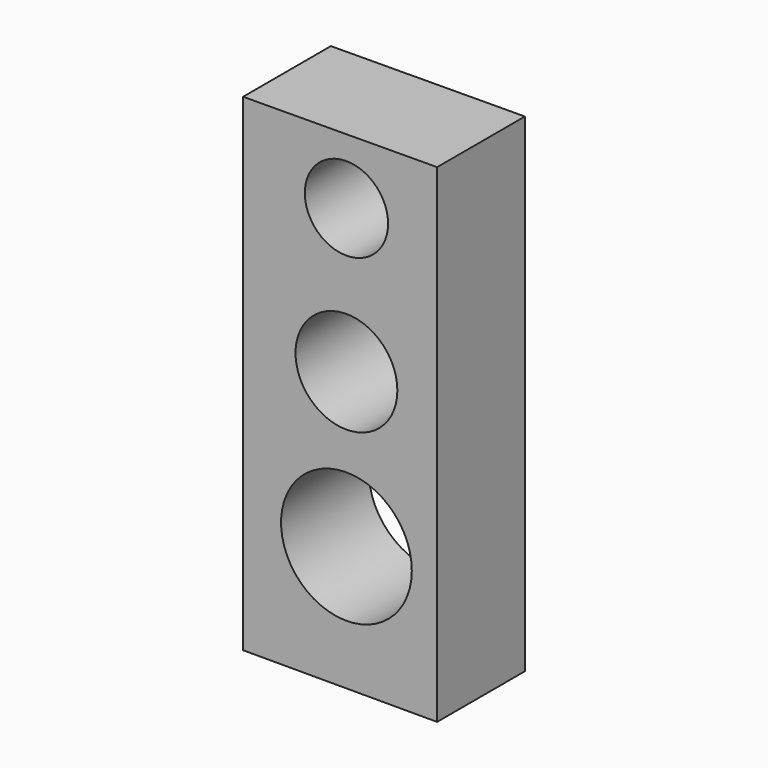
from build123d import *

# Parameters (mm, degrees)
F0_R     = 15.133922
F0_R_2   = 11.792866
F0_R_3   = 9.637383
F1_DEPTH = 25.4


with BuildPart() as f1:
    # F0 (on Front) → F1 (new body)
    with BuildSketch(Plane.XZ):
        Polygon((20.998921, 56.295641), (-23.924533, 56.03746), (-23.924533, -56.787536), (20.998921, -56.787536), align=None)
        with Locations((0, -27.87129)):
            Circle(F0_R, mode=Mode.SUBTRACT)
        with Locations((0, 7.757657)):
            Circle(F0_R_2, mode=Mode.SUBTRACT)
        with Locations((0, 41.062973)):
            Circle(F0_R_3, mode=Mode.SUBTRACT)
    extrude(amount=F1_DEPTH)


solid = f1.part
